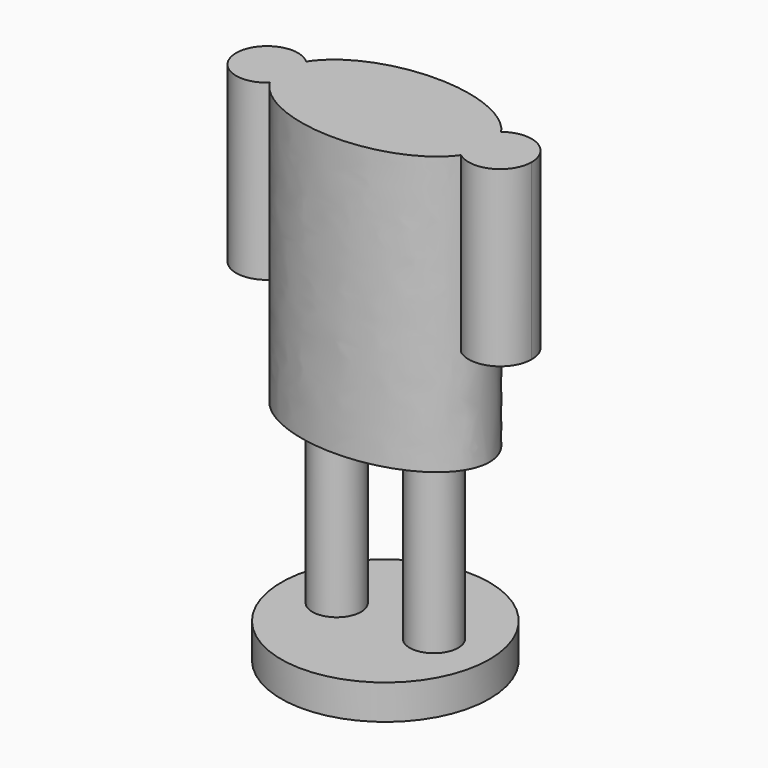
from build123d import *

# Parameters (mm, degrees)
F0_R     = 15
F1_DEPTH = 5
F2_R     = 3.5
F3_DEPTH = 25
F5_DEPTH = 40
F7_DEPTH = 25


with BuildPart() as f1:
    # F0 (on Top) → F1 (new body)
    with BuildSketch(Plane.XY):
        Circle(F0_R)
    extrude(amount=F1_DEPTH)

    # F2 (on face) → F3 (join)
    with BuildSketch(Plane.XY.offset(5)):
        with Locations((7, 0)):
            Circle(F2_R)
        with Locations((-7, 0)):
            Circle(F2_R)
    extrude(amount=F3_DEPTH)

    # F4 (on face) → F5 (join)
    with BuildSketch(Plane.XY.offset(30)):
        with BuildLine():
            add(Edge.make_bspline(
                [(14.994186, 0), (14.994186, 15.968669), (-7.497093, 7.984335), (-29.988373, 0), (-7.497093, -7.984335), (14.994186, -15.968669), (14.994186, 0)],
                knots=[0, 0, 0, 2.094395, 2.094395, 4.18879, 4.18879, 6.283185, 6.283185, 6.283185], degree=2, weights=[1, 0.5, 1, 0.5, 1, 0.5, 1]))
        make_face()
    extrude(amount=F5_DEPTH)

    # F6 (on face) → F7 (join)
    with BuildSketch(Plane.XY.offset(70)):
        with BuildLine():
            add(Edge.make_bspline(
                [(-14.011523, 3.282685), (-16.045766, 0), (-14.011523, -3.282685)],
                knots=[2.807744, 2.807744, 2.807744, 3.475441, 3.475441, 3.475441], degree=2, weights=[0.775409, 0.724591, 0.775409]))
            ThreePointArc((-14.011523, 3.282685), (-21.484445, 0), (-14.011523, -3.282685))
        make_face()
        with BuildLine():
            ThreePointArc((13.78979, -3.620306), (18.554929, -4.068156), (21.076282, 0))
            ThreePointArc((21.076282, 0), (18.554929, 4.068156), (13.78979, 3.620306))
            add(Edge.make_bspline(
                [(14.994186, 0), (14.994186, 1.885895), (13.78979, 3.620306)],
                knots=[0, 0, 0, 0.442442, 0.442442, 0.442442], degree=2, weights=[1, 0.894375, 0.833376]))
            add(Edge.make_bspline(
                [(13.78979, -3.620306), (14.994186, -1.885895), (14.994186, 0)],
                knots=[5.840743, 5.840743, 5.840743, 6.283185, 6.283185, 6.283185], degree=2, weights=[0.833376, 0.894375, 1]))
        make_face()
    extrude(amount=-F7_DEPTH)


solid = f1.part
